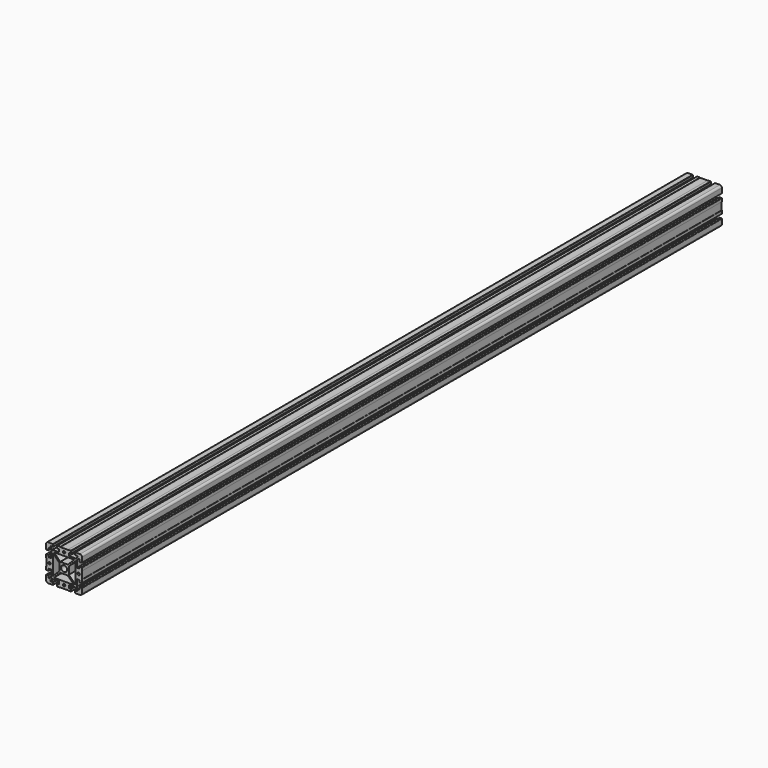
from build123d import *

# Parameters (mm, degrees)
F1_DEPTH = 2000


with BuildPart() as f1:
    # F0 (on Front) → F1 (new body)
    with BuildSketch(Plane.XZ):
        with BuildLine():
            ThreePointArc((0, -7.5), (-5.303301, -5.303301), (-7.5, 0))
            Line((-7.5, 0), (-12, 0))
            Line((-12, 0), (-12, -9.5))
            Line((-12, -9.5), (-28, -25.5))
            Line((-28, -25.5), (-28, 0))
            Line((-28, 0), (-33.25, 0))
            ThreePointArc((-33.25, 0), (-36.25, -3), (-39.25, 0))
            Line((-39.25, 0), (-44.5, 0))
            Line((-44.5, 0), (-44.5, -9.5))
            Line((-44.5, -9.5), (-45, -9.5))
            Line((-45, -9.5), (-45, -17))
            Line((-45, -17), (-44.5, -17))
            Line((-44.5, -17), (-44.5, -17.5))
            Line((-44.5, -17.5), (-39, -17.5))
            Line((-39, -17.5), (-39, -12.5))
            Line((-39, -12.5), (-32, -12.5))
            Line((-32, -12.5), (-32, -29.5))
            Line((-32, -29.5), (-36, -33.5))
            Line((-36, -33.5), (-39, -33.5))
            Line((-39, -33.5), (-39, -27.5))
            Line((-39, -27.5), (-44.5, -27.5))
            Line((-44.5, -27.5), (-44.5, -28))
            Line((-44.5, -28), (-45, -28))
            Line((-45, -28), (-45, -40))
            ThreePointArc((-45, -40), (-43.535534, -43.535534), (-40, -45))
            Line((-40, -45), (-28, -45))
            Line((-28, -45), (-28, -44.5))
            Line((-28, -44.5), (-27.5, -44.5))
            Line((-27.5, -44.5), (-27.5, -39))
            Line((-27.5, -39), (-33.5, -39))
            Line((-33.5, -39), (-33.5, -36))
            Line((-33.5, -36), (-29.5, -32))
            Line((-29.5, -32), (-12.5, -32))
            Line((-12.5, -32), (-12.5, -39))
            Line((-12.5, -39), (-17.5, -39))
            Line((-17.5, -39), (-17.5, -44.5))
            Line((-17.5, -44.5), (-17, -44.5))
            Line((-17, -44.5), (-17, -45))
            Line((-17, -45), (-9.5, -45))
            Line((-9.5, -45), (-9.5, -44.5))
            Line((-9.5, -44.5), (0, -44.5))
            Line((0, -44.5), (0, -39.25))
            ThreePointArc((0, -39.25), (-3, -36.25), (0, -33.25))
            Line((0, -33.25), (0, -28))
            Line((0, -28), (-25.5, -28))
            Line((-25.5, -28), (-9.5, -12))
            Line((-9.5, -12), (0, -12))
            Line((0, -12), (0, -7.5))
        make_face()
        with BuildLine():
            Line((0, 39.25), (0, 44.5))
            Line((0, 44.5), (-9.5, 44.5))
            Line((-9.5, 44.5), (-9.5, 45))
            Line((-9.5, 45), (-17, 45))
            Line((-17, 45), (-17, 44.5))
            Line((-17, 44.5), (-17.5, 44.5))
            Line((-17.5, 44.5), (-17.5, 39))
            Line((-17.5, 39), (-12.5, 39))
            Line((-12.5, 39), (-12.5, 32))
            Line((-12.5, 32), (-29.5, 32))
            Line((-29.5, 32), (-33.5, 36))
            Line((-33.5, 36), (-33.5, 39))
            Line((-33.5, 39), (-27.5, 39))
            Line((-27.5, 39), (-27.5, 44.5))
            Line((-27.5, 44.5), (-28, 44.5))
            Line((-28, 44.5), (-28, 45))
            Line((-28, 45), (-40, 45))
            ThreePointArc((-40, 45), (-43.535534, 43.535534), (-45, 40))
            Line((-45, 40), (-45, 28))
            Line((-45, 28), (-44.5, 28))
            Line((-44.5, 28), (-44.5, 27.5))
            Line((-44.5, 27.5), (-39, 27.5))
            Line((-39, 27.5), (-39, 33.5))
            Line((-39, 33.5), (-36, 33.5))
            Line((-36, 33.5), (-32, 29.5))
            Line((-32, 29.5), (-32, 12.5))
            Line((-32, 12.5), (-39, 12.5))
            Line((-39, 12.5), (-39, 17.5))
            Line((-39, 17.5), (-44.5, 17.5))
            Line((-44.5, 17.5), (-44.5, 17))
            Line((-44.5, 17), (-45, 17))
            Line((-45, 17), (-45, 9.5))
            Line((-45, 9.5), (-44.5, 9.5))
            Line((-44.5, 9.5), (-44.5, 0))
            Line((-44.5, 0), (-39.25, 0))
            ThreePointArc((-39.25, 0), (-36.25, 3), (-33.25, 0))
            Line((-33.25, 0), (-28, 0))
            Line((-28, 0), (-28, 25.5))
            Line((-28, 25.5), (-12, 9.5))
            Line((-12, 9.5), (-12, 0))
            Line((-12, 0), (-7.5, 0))
            ThreePointArc((-7.5, 0), (-5.303301, 5.303301), (0, 7.5))
            Line((0, 7.5), (0, 12))
            Line((0, 12), (-9.5, 12))
            Line((-9.5, 12), (-25.5, 28))
            Line((-25.5, 28), (0, 28))
            Line((0, 28), (0, 33.25))
            ThreePointArc((0, 33.25), (-3, 36.25), (0, 39.25))
        make_face()
        with BuildLine():
            Line((40, 45), (28, 45))
            Line((28, 45), (28, 44.5))
            Line((28, 44.5), (27.5, 44.5))
            Line((27.5, 44.5), (27.5, 39))
            Line((27.5, 39), (33.5, 39))
            Line((33.5, 39), (33.5, 36))
            Line((33.5, 36), (29.5, 32))
            Line((29.5, 32), (12.5, 32))
            Line((12.5, 32), (12.5, 39))
            Line((12.5, 39), (17.5, 39))
            Line((17.5, 39), (17.5, 44.5))
            Line((17.5, 44.5), (17, 44.5))
            Line((17, 44.5), (17, 45))
            Line((17, 45), (9.5, 45))
            Line((9.5, 45), (9.5, 44.5))
            Line((9.5, 44.5), (0, 44.5))
            Line((0, 44.5), (0, 39.25))
            ThreePointArc((0, 39.25), (3, 36.25), (0, 33.25))
            Line((0, 33.25), (0, 28))
            Line((0, 28), (25.5, 28))
            Line((25.5, 28), (9.5, 12))
            Line((9.5, 12), (0, 12))
            Line((0, 12), (0, 7.5))
            ThreePointArc((0, 7.5), (5.303301, 5.303301), (7.5, 0))
            Line((7.5, 0), (12, 0))
            Line((12, 0), (12, 9.5))
            Line((12, 9.5), (28, 25.5))
            Line((28, 25.5), (28, 0))
            Line((28, 0), (33.25, 0))
            ThreePointArc((33.25, 0), (36.25, 3), (39.25, 0))
            Line((39.25, 0), (44.5, 0))
            Line((44.5, 0), (44.5, 9.5))
            Line((44.5, 9.5), (45, 9.5))
            Line((45, 9.5), (45, 17))
            Line((45, 17), (44.5, 17))
            Line((44.5, 17), (44.5, 17.5))
            Line((44.5, 17.5), (39, 17.5))
            Line((39, 17.5), (39, 12.5))
            Line((39, 12.5), (32, 12.5))
            Line((32, 12.5), (32, 29.5))
            Line((32, 29.5), (36, 33.5))
            Line((36, 33.5), (39, 33.5))
            Line((39, 33.5), (39, 27.5))
            Line((39, 27.5), (44.5, 27.5))
            Line((44.5, 27.5), (44.5, 28))
            Line((44.5, 28), (45, 28))
            Line((45, 28), (45, 40))
            ThreePointArc((45, 40), (43.535534, 43.535534), (40, 45))
        make_face()
        with BuildLine():
            Line((44.5, -9.5), (44.5, 0))
            Line((44.5, 0), (39.25, 0))
            ThreePointArc((39.25, 0), (36.25, -3), (33.25, 0))
            Line((33.25, 0), (28, 0))
            Line((28, 0), (28, -25.5))
            Line((28, -25.5), (12, -9.5))
            Line((12, -9.5), (12, 0))
            Line((12, 0), (7.5, 0))
            ThreePointArc((7.5, 0), (5.303301, -5.303301), (0, -7.5))
            Line((0, -7.5), (0, -12))
            Line((0, -12), (9.5, -12))
            Line((9.5, -12), (25.5, -28))
            Line((25.5, -28), (0, -28))
            Line((0, -28), (0, -33.25))
            ThreePointArc((0, -33.25), (3, -36.25), (0, -39.25))
            Line((0, -39.25), (0, -44.5))
            Line((0, -44.5), (9.5, -44.5))
            Line((9.5, -44.5), (9.5, -45))
            Line((9.5, -45), (17, -45))
            Line((17, -45), (17, -44.5))
            Line((17, -44.5), (17.5, -44.5))
            Line((17.5, -44.5), (17.5, -39))
            Line((17.5, -39), (12.5, -39))
            Line((12.5, -39), (12.5, -32))
            Line((12.5, -32), (29.5, -32))
            Line((29.5, -32), (33.5, -36))
            Line((33.5, -36), (33.5, -39))
            Line((33.5, -39), (27.5, -39))
            Line((27.5, -39), (27.5, -44.5))
            Line((27.5, -44.5), (28, -44.5))
            Line((28, -44.5), (28, -45))
            Line((28, -45), (40, -45))
            ThreePointArc((40, -45), (43.535534, -43.535534), (45, -40))
            Line((45, -40), (45, -28))
            Line((45, -28), (44.5, -28))
            Line((44.5, -28), (44.5, -27.5))
            Line((44.5, -27.5), (39, -27.5))
            Line((39, -27.5), (39, -33.5))
            Line((39, -33.5), (36, -33.5))
            Line((36, -33.5), (32, -29.5))
            Line((32, -29.5), (32, -12.5))
            Line((32, -12.5), (39, -12.5))
            Line((39, -12.5), (39, -17.5))
            Line((39, -17.5), (44.5, -17.5))
            Line((44.5, -17.5), (44.5, -17))
            Line((44.5, -17), (45, -17))
            Line((45, -17), (45, -9.5))
            Line((45, -9.5), (44.5, -9.5))
        make_face()
    extrude(amount=F1_DEPTH)


solid = f1.part
